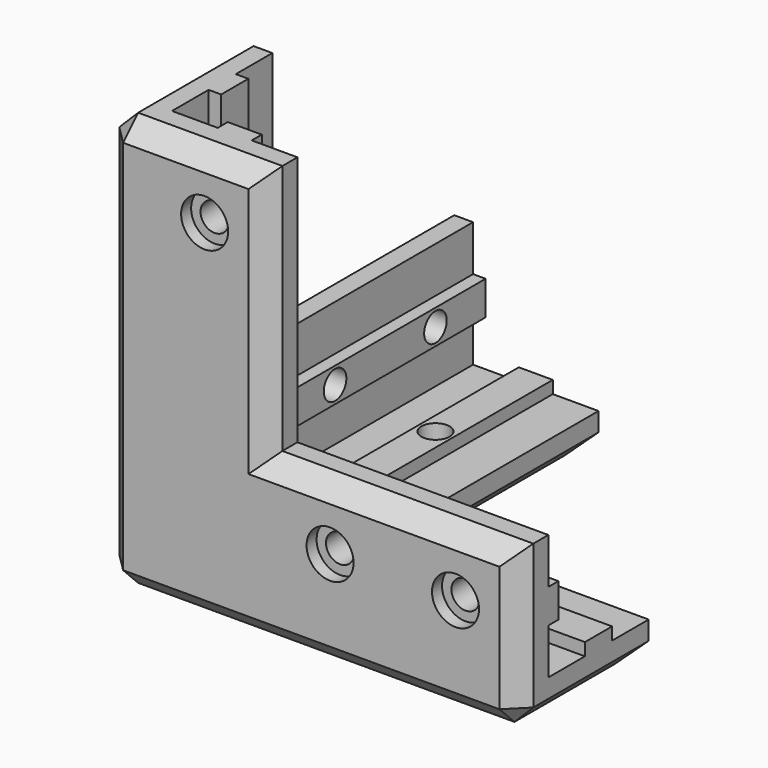
from build123d import *

# Parameters (mm, degrees)
F1_DEPTH  = 6
F3_DEPTH  = 20
F5_DEPTH  = 40
F7_DEPTH  = 60
F9_DEPTH  = 2
F11_DEPTH = 2
F13_DEPTH = 2
F14_R     = 2.25
F15_DEPTH = 8
F16_R     = 2.25
F17_DEPTH = 8
F18_R     = 3.25
F18_R_2   = 2.25
F19_DEPTH = 8.001
F20_R     = 3.75
F21_DEPTH = 2
F22_R     = 3.75
F23_DEPTH = 2
F24_R     = 3.75
F24_R_2   = 4.75
F25_DEPTH = 2
F26_SIZE  = 3


with BuildPart() as f1:
    # F0 (on Top) → F1 (new body)
    with BuildSketch(Plane.XY):
        Polygon((0, 66), (0, 0), (66, 0), (66, 26), (26, 26), (26, 66), align=None)
    extrude(amount=F1_DEPTH)

    # F2 (on face) → F3 (join)
    with BuildSketch(Plane.XY.offset(6)):
        Polygon((6, 66), (0, 66), (0, 0), (66, 0), (66, 6), (6, 6), align=None)
    extrude(amount=F3_DEPTH)

    # F4 (on face) → F5 (join)
    with BuildSketch(Plane.XY.offset(26)):
        Polygon((6, 6), (6, 26), (0, 26), (0, 0), (26, 0), (26, 6), align=None)
    extrude(amount=F5_DEPTH)

    # F6 (on face) → F7 (join)
    with BuildSketch(Plane.XY.offset(6)):
        Polygon((13.29, 6), (16, 6), (18.71, 6), (18.71, 8), (13.29, 8), align=None)
        Polygon((6, 18.71), (6, 16), (6, 13.29), (8, 13.29), (8, 18.71), align=None)
    extrude(amount=F7_DEPTH)

    # F8 (on face) → F9 (join)
    with BuildSketch(Plane.XY.offset(6)):
        Polygon((66, 13.29), (66, 16), (66, 18.71), (26, 18.71), (26, 13.29), align=None)
        Polygon((18.71, 66), (16, 66), (13.29, 66), (13.29, 26), (18.71, 26), align=None)
    extrude(amount=F9_DEPTH)

    # F10 (on face) → F11 (join)
    with BuildSketch(Plane(origin=(0, 6, 0), x_dir=(-1, 0, 0), z_dir=(0, 1, 0))):
        Polygon((-66, 18.71), (-66, 16), (-66, 13.29), (-26, 13.29), (-26, 16), (-26, 18.71), align=None)
    extrude(amount=F11_DEPTH)

    # F12 (on face) → F13 (join)
    with BuildSketch(Plane.YZ.offset(6)):
        Polygon((66, 13.29), (66, 16), (66, 18.71), (26, 18.71), (26, 13.29), align=None)
    extrude(amount=F13_DEPTH)

    # F14 (on face) → F15 (cut, through all)
    with BuildSketch(Plane.XZ):
        with Locations((56, 16)):
            Circle(F14_R)
        with Locations((16, 56)):
            Circle(F14_R)
        with Locations((36, 16)):
            Circle(F14_R)
    extrude(amount=-F15_DEPTH, mode=Mode.SUBTRACT)

    # F16 (on face) → F17 (cut, through all)
    with BuildSketch(Plane(origin=(0, 0, 0), x_dir=(0, -1, 0), z_dir=(-1, 0, 0))):
        with Locations((-16, 56)):
            Circle(F16_R)
        with Locations((-56, 16)):
            Circle(F16_R)
        with Locations((-36, 16)):
            Circle(F16_R)
    extrude(amount=-F17_DEPTH, mode=Mode.SUBTRACT)

    # F18 (on face) → F19 (cut, through all)
    with BuildSketch(Plane(origin=(0, 0, 0), x_dir=(1, 0, 0), z_dir=(0, 0, -1))):
        with Locations((16, -16)):
            Circle(F18_R)
        with Locations((46, -16)):
            Circle(F18_R_2)
        with Locations((16, -46)):
            Circle(F18_R_2)
    extrude(amount=-F19_DEPTH, mode=Mode.SUBTRACT)

    # F20 (on face) → F21 (cut)
    with BuildSketch(Plane.XZ):
        with Locations((16, 56)):
            Circle(F20_R)
        with Locations((36, 16)):
            Circle(F20_R)
        with Locations((56, 16)):
            Circle(F20_R)
    extrude(amount=-F21_DEPTH, mode=Mode.SUBTRACT)

    # F22 (on face) → F23 (cut)
    with BuildSketch(Plane(origin=(0, 0, 0), x_dir=(0, -1, 0), z_dir=(-1, 0, 0))):
        with Locations((-16, 56)):
            Circle(F22_R)
        with Locations((-36, 16)):
            Circle(F22_R)
        with Locations((-56, 16)):
            Circle(F22_R)
    extrude(amount=-F23_DEPTH, mode=Mode.SUBTRACT)

    # F24 (on face) → F25 (cut)
    with BuildSketch(Plane(origin=(0, 0, 0), x_dir=(1, 0, 0), z_dir=(0, 0, -1))):
        with Locations((16, -46)):
            Circle(F24_R)
        with Locations((16, -16)):
            Circle(F24_R_2)
        with Locations((46, -16)):
            Circle(F24_R)
    extrude(amount=-F25_DEPTH, mode=Mode.SUBTRACT)

    # F26
    f26_edges = [f1.edges().sort_by_distance(p)[0] for p in [
        (33, 0, 0),
        (0, 33, 0),
        (0, 0, 33),
        (0, 26, 46),
        (0, 46, 26),
        (26, 0, 46),
        (46, 0, 26),
        (0, 13, 66),
        (13, 0, 66),
        (0, 66, 13),
        (13, 66, 0),
        (66, 0, 13),
        (66, 13, 0),
        (46, 26, 0),
        (26, 46, 0),
    ]]
    chamfer(f26_edges, length=F26_SIZE)


solid = f1.part
